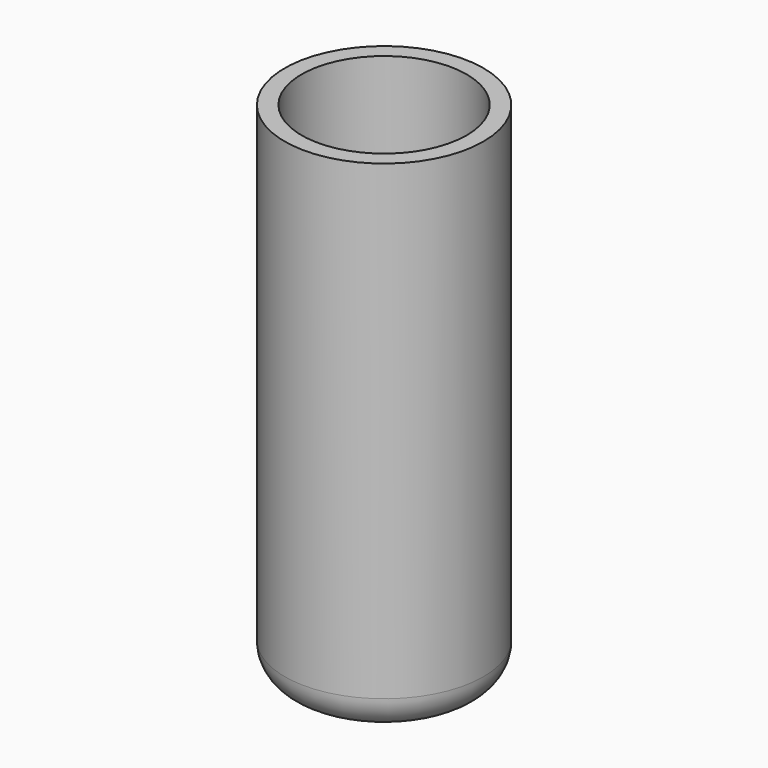
from build123d import *

# Parameters (mm, degrees)
F0_R     = 15
F1_DEPTH = 76.2
F2_R     = 5.08
F3_R     = 12.46
F4_DEPTH = 76.201


with BuildPart() as f1:
    # F0 (on Top) → F1 (new body)
    with BuildSketch(Plane.XY):
        Circle(F0_R)
    extrude(amount=F1_DEPTH)

    # F2
    f2_edges = [f1.edges().sort_by_distance(p)[0] for p in [
        (-15, 0, 0),
    ]]
    fillet(f2_edges, radius=F2_R)

    # F3 (on face) → F4 (cut, through all)
    with BuildSketch(Plane.XY.offset(76.2)):
        Circle(F3_R)
    extrude(amount=-F4_DEPTH, mode=Mode.SUBTRACT)


solid = f1.part
